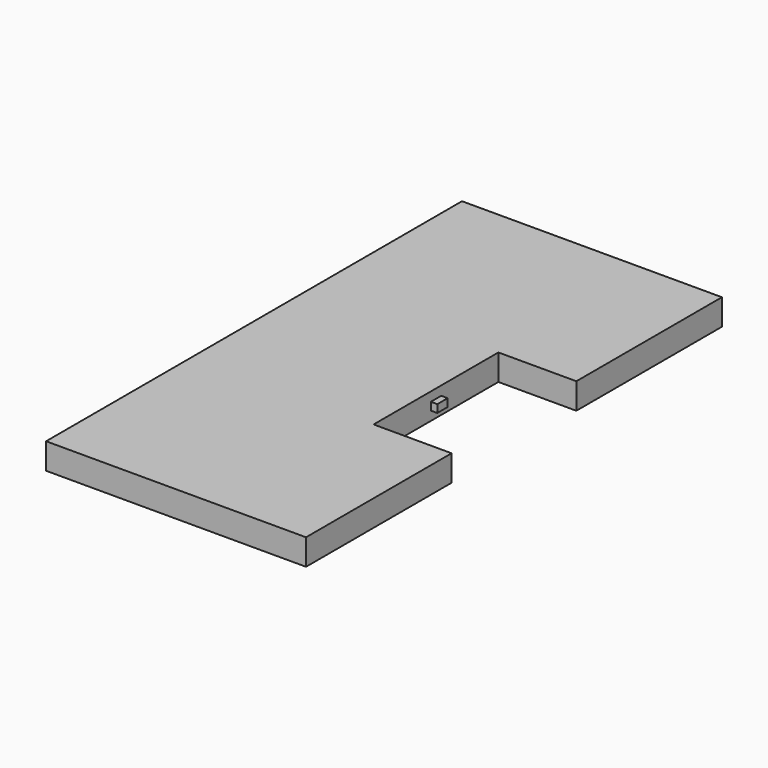
from build123d import *

# Parameters (mm, degrees)
F0_W     = 200
F0_H     = 20
F1_DEPTH = 400
F3_DEPTH = 25
F4_W     = 10
F4_H     = 6
F5_DEPTH = 5


with BuildPart() as f1:
    # F0 (on Front) → F1 (new body)
    with BuildSketch(Plane.XZ):
        with Locations((100, 10)):
            Rectangle(F0_W, F0_H)
    extrude(amount=F1_DEPTH)

    # F2 (on face) → F3 (cut)
    with BuildSketch(Plane.XY.offset(20)):
        Polygon((200, -260), (200, -200), (200, -140), (140, -140), (140, -260), align=None)
    extrude(amount=-F3_DEPTH, mode=Mode.SUBTRACT)

    # F4 (on face) → F5 (join)
    with BuildSketch(Plane.YZ.offset(140)):
        with Locations((-200, 10)):
            Rectangle(F4_W, F4_H)
    extrude(amount=F5_DEPTH)


solid = f1.part
